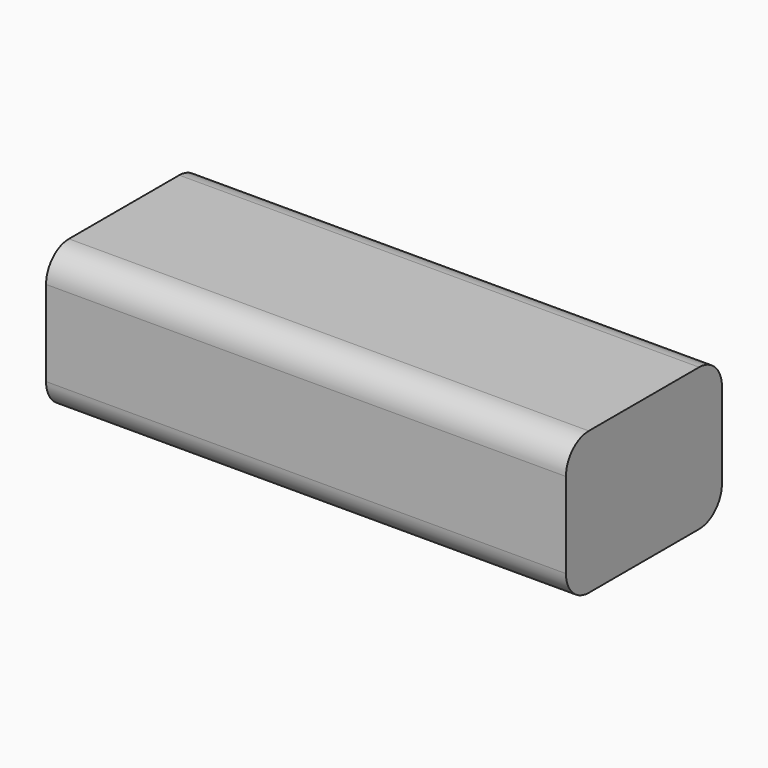
from build123d import *

# Parameters (mm, degrees)
F0_W     = 185.286317
F0_H     = 69.482369
F1_DEPTH = 25.4
F2_R     = 10.16


with BuildPart() as f1:
    # F0 (on Top) → F1 (new body, symmetric)
    with BuildSketch(Plane.XY):
        with Locations((32.635657, -10.176711)):
            Rectangle(F0_W, F0_H)
    extrude(amount=F1_DEPTH, both=True)

    # F2
    f2_edges = [f1.edges().sort_by_distance(p)[0] for p in [
        (32.635657, -44.917896, 25.4),
        (32.635657, 24.564473, 25.4),
        (32.635657, -44.917896, -25.4),
        (32.635657, 24.564473, -25.4),
    ]]
    fillet(f2_edges, radius=F2_R)


solid = f1.part
